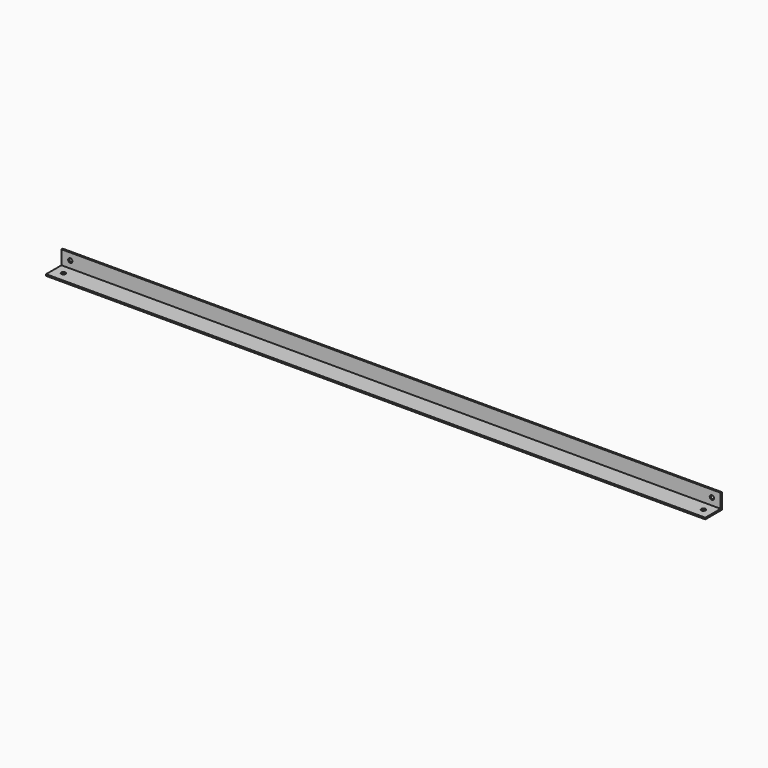
from build123d import *

# Parameters (mm, degrees)
BOX011_W      = 634
BOX011_H      = 20
BOX011_DEPTH  = 15
BOX010_W      = 634
BOX010_H      = 20
BOX010_DEPTH  = 15
SKETCH009_R   = 2.05
HOLE004_DEPTH = 1270.486422
SKETCH018_R   = 2.05
HOLE011_DEPTH = 1288.986422


with BuildPart() as reference_cube_cut:
    # Box011 → Box011 (new body)
    with BuildSketch(Plane(origin=(1.5, 1.5, 1.5), x_dir=(1, 0, 0), z_dir=(0, 0, 1))):
        with Locations((317, 10)):
            Rectangle(BOX011_W, BOX011_H)
    extrude(amount=BOX011_DEPTH)


with BuildPart() as bottom_body:
    # Box010 → Box010 (new body)
    with BuildSketch(Plane(origin=(1.5, 0, 0), x_dir=(1, 0, 0), z_dir=(0, 0, 1))):
        with Locations((317, 10)):
            Rectangle(BOX010_W, BOX010_H)
    extrude(amount=BOX010_DEPTH)

    # Cut005: cut reference_cube_cut
    add(reference_cube_cut.part, mode=Mode.SUBTRACT)


with BuildPart() as bottom_body_1:
    # Cut005 placement: moved
    add(bottom_body.part.moved(Location((1.5, 1.5, 23))))


with BuildPart() as bottom_body_2:
    # BaseFeature003 placement: moved
    add(bottom_body_1.part.moved(Location((-1.5, -1.5, -23))))

    # Sketch009 → Hole004 (cut, through all)
    with BuildSketch(Plane.XY.offset(1.5)):
        with Locations((10.75, 10.75)):
            Circle(SKETCH009_R)
    hole004 = extrude(amount=-HOLE004_DEPTH, mode=Mode.SUBTRACT)

    # Mirrored002: Hole004 across Sketch009 Axis0
    add(hole004.mirror(Plane(origin=(318.5, 20, 1.5), x_dir=(0, 0, 1), z_dir=(1, 0, 0))), mode=Mode.SUBTRACT)

    # Sketch018 → Hole011 (cut, through all)
    with BuildSketch(Plane.XZ):
        with Locations((10, 8.25)):
            Circle(SKETCH018_R)
    hole011 = extrude(amount=-HOLE011_DEPTH, mode=Mode.SUBTRACT)

    # Mirrored006: Hole011 across Sketch018 Axis0
    add(hole011.mirror(Plane(origin=(318.5, 0, 15), x_dir=(0, -1, 0), z_dir=(1, 0, 0))), mode=Mode.SUBTRACT)


with BuildPart() as bottom_body_3:
    # Body003 placement: moved
    add(bottom_body_2.part.moved(Location((1.5, 1.5, 21.5))))


with BuildPart() as front_bottom_mirror:
    # Part__Mirroring004: instance of bottom_body
    add(bottom_body_3.part.mirror(Plane(origin=(490, 4e-06, 29), x_dir=(1, 0, 0), z_dir=(0, 1, 0))))


with BuildPart() as front_bottom_mirror_1:
    # Part__Mirroring004 placement: moved
    add(front_bottom_mirror.part.moved(Location((0, 320, 0))))


solid = front_bottom_mirror_1.part
